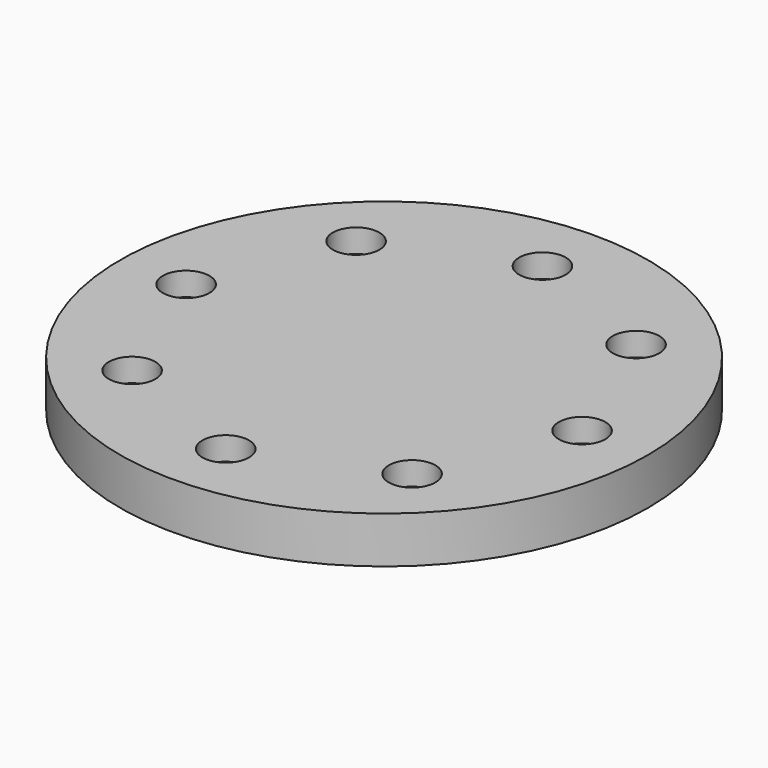
from build123d import *

# Parameters (mm, degrees)
CYLINDER796_R                = 1.5
CYLINDER796_DEPTH            = 20
CYLINDER796_PLACEMENT_ANGLE  = 45
CYLINDER797_R                = 1.5
CYLINDER797_DEPTH            = 20
CYLINDER798_R                = 1.5
CYLINDER798_DEPTH            = 20
CYLINDER798_PLACEMENT_ANGLE  = 135
CYLINDER799_R                = 1.5
CYLINDER799_DEPTH            = 20
CYLINDER800_R                = 1.5
CYLINDER800_DEPTH            = 20
CYLINDER800_PLACEMENT_ANGLE  = 225
CYLINDER801_R                = 1.5
CYLINDER801_DEPTH            = 20
CYLINDER802_R                = 1.5
CYLINDER802_DEPTH            = 20
CYLINDER802_PLACEMENT_ANGLE  = 45
CYLINDER794_R                = 1.5
CYLINDER794_DEPTH            = 20
CYLINDER803_R                = 3
CYLINDER803_DEPTH            = 3
CYLINDER803_PLACEMENT_ANGLE  = 45
CYLINDER1815_R               = 3
CYLINDER1815_DEPTH           = 3
CYLINDER1814_R               = 3
CYLINDER1814_DEPTH           = 3
CYLINDER1814_PLACEMENT_ANGLE = 135
CYLINDER1806_R               = 3
CYLINDER1806_DEPTH           = 3
CYLINDER1810_R               = 3
CYLINDER1810_DEPTH           = 3
CYLINDER1810_PLACEMENT_ANGLE = 225
CYLINDER1807_R               = 3
CYLINDER1807_DEPTH           = 3
CYLINDER1808_R               = 3
CYLINDER1808_DEPTH           = 3
CYLINDER1808_PLACEMENT_ANGLE = 45
CYLINDER795_R                = 3
CYLINDER795_DEPTH            = 3
CYLINDER257_R                = 34
CYLINDER257_DEPTH            = 6


with BuildPart() as obj1:
    # Cylinder796 → Cylinder796 (new body)
    with BuildSketch(Plane.XY):
        Circle(CYLINDER796_R)
    extrude(amount=CYLINDER796_DEPTH)


with BuildPart() as obj1_1:
    # Cylinder796 placement: moved
    add(obj1.part.moved(Location((-18.031223, 18.031223, -4))).rotate(Axis((-18.031223, 18.031223, -4), (0, 0, 1)), CYLINDER796_PLACEMENT_ANGLE))


with BuildPart() as obj2:
    # Cylinder797 → Cylinder797 (new body)
    with BuildSketch(Plane(origin=(-25.5, 0, -4), x_dir=(0, 1, 0), z_dir=(0, 0, 1))):
        Circle(CYLINDER797_R)
    extrude(amount=CYLINDER797_DEPTH)


with BuildPart() as obj3:
    # Cylinder798 → Cylinder798 (new body)
    with BuildSketch(Plane.XY):
        Circle(CYLINDER798_R)
    extrude(amount=CYLINDER798_DEPTH)


with BuildPart() as obj3_1:
    # Cylinder798 placement: moved
    add(obj3.part.moved(Location((-18.031223, -18.031223, -4))).rotate(Axis((-18.031223, -18.031223, -4), (0, 0, 1)), CYLINDER798_PLACEMENT_ANGLE))


with BuildPart() as obj4:
    # Cylinder799 → Cylinder799 (new body)
    with BuildSketch(Plane(origin=(0, -25.5, -4), x_dir=(-1, 0, 0), z_dir=(0, 0, 1))):
        Circle(CYLINDER799_R)
    extrude(amount=CYLINDER799_DEPTH)


with BuildPart() as obj5:
    # Cylinder800 → Cylinder800 (new body)
    with BuildSketch(Plane.XY):
        Circle(CYLINDER800_R)
    extrude(amount=CYLINDER800_DEPTH)


with BuildPart() as obj5_1:
    # Cylinder800 placement: moved
    add(obj5.part.moved(Location((18.031223, -18.031223, -4))).rotate(Axis((18.031223, -18.031223, -4), (0, 0, 1)), CYLINDER800_PLACEMENT_ANGLE))


with BuildPart() as obj6:
    # Cylinder801 → Cylinder801 (new body)
    with BuildSketch(Plane(origin=(25.5, 0, -4), x_dir=(0, -1, 0), z_dir=(0, 0, 1))):
        Circle(CYLINDER801_R)
    extrude(amount=CYLINDER801_DEPTH)


with BuildPart() as obj7:
    # Cylinder802 → Cylinder802 (new body)
    with BuildSketch(Plane.XY):
        Circle(CYLINDER802_R)
    extrude(amount=CYLINDER802_DEPTH)


with BuildPart() as obj7_1:
    # Cylinder802 placement: moved
    add(obj7.part.moved(Location((18.031223, 18.031223, -4))).rotate(Axis((18.031223, 18.031223, -4), (0, 0, -1)), CYLINDER802_PLACEMENT_ANGLE))


with BuildPart() as compound003:
    # Cylinder794 → Cylinder794 (new body)
    with BuildSketch(Plane(origin=(0, 25.5, -4), x_dir=(1, 0, 0), z_dir=(0, 0, 1))):
        Circle(CYLINDER794_R)
    extrude(amount=CYLINDER794_DEPTH)

    # Compound003: union obj1, obj2, obj3, obj4, obj5, obj6, obj7
    add(obj1_1.part)
    add(obj2.part)
    add(obj3_1.part)
    add(obj4.part)
    add(obj5_1.part)
    add(obj6.part)
    add(obj7_1.part)


with BuildPart() as obj8:
    # Cylinder803 → Cylinder803 (new body)
    with BuildSketch(Plane.XY):
        Circle(CYLINDER803_R)
    extrude(amount=CYLINDER803_DEPTH)


with BuildPart() as obj8_1:
    # Cylinder803 placement: moved
    add(obj8.part.moved(Location((-18.031223, 18.031223, 3))).rotate(Axis((-18.031223, 18.031223, 3), (0, 0, 1)), CYLINDER803_PLACEMENT_ANGLE))


with BuildPart() as obj9:
    # Cylinder1815 → Cylinder1815 (new body)
    with BuildSketch(Plane(origin=(-25.5, 0, 3), x_dir=(0, 1, 0), z_dir=(0, 0, 1))):
        Circle(CYLINDER1815_R)
    extrude(amount=CYLINDER1815_DEPTH)


with BuildPart() as obj10:
    # Cylinder1814 → Cylinder1814 (new body)
    with BuildSketch(Plane.XY):
        Circle(CYLINDER1814_R)
    extrude(amount=CYLINDER1814_DEPTH)


with BuildPart() as obj10_1:
    # Cylinder1814 placement: moved
    add(obj10.part.moved(Location((-18.031223, -18.031223, 3))).rotate(Axis((-18.031223, -18.031223, 3), (0, 0, 1)), CYLINDER1814_PLACEMENT_ANGLE))


with BuildPart() as obj11:
    # Cylinder1806 → Cylinder1806 (new body)
    with BuildSketch(Plane(origin=(0, -25.5, 3), x_dir=(-1, 0, 0), z_dir=(0, 0, 1))):
        Circle(CYLINDER1806_R)
    extrude(amount=CYLINDER1806_DEPTH)


with BuildPart() as obj12:
    # Cylinder1810 → Cylinder1810 (new body)
    with BuildSketch(Plane.XY):
        Circle(CYLINDER1810_R)
    extrude(amount=CYLINDER1810_DEPTH)


with BuildPart() as obj12_1:
    # Cylinder1810 placement: moved
    add(obj12.part.moved(Location((18.031223, -18.031223, 3))).rotate(Axis((18.031223, -18.031223, 3), (0, 0, 1)), CYLINDER1810_PLACEMENT_ANGLE))


with BuildPart() as obj13:
    # Cylinder1807 → Cylinder1807 (new body)
    with BuildSketch(Plane(origin=(25.5, 0, 3), x_dir=(0, -1, 0), z_dir=(0, 0, 1))):
        Circle(CYLINDER1807_R)
    extrude(amount=CYLINDER1807_DEPTH)


with BuildPart() as obj14:
    # Cylinder1808 → Cylinder1808 (new body)
    with BuildSketch(Plane.XY):
        Circle(CYLINDER1808_R)
    extrude(amount=CYLINDER1808_DEPTH)


with BuildPart() as obj14_1:
    # Cylinder1808 placement: moved
    add(obj14.part.moved(Location((18.031223, 18.031223, 3))).rotate(Axis((18.031223, 18.031223, 3), (0, 0, -1)), CYLINDER1808_PLACEMENT_ANGLE))


with BuildPart() as compound004:
    # Cylinder795 → Cylinder795 (new body)
    with BuildSketch(Plane(origin=(0, 25.5, 3), x_dir=(1, 0, 0), z_dir=(0, 0, 1))):
        Circle(CYLINDER795_R)
    extrude(amount=CYLINDER795_DEPTH)

    # Compound004: union obj8, obj9, obj10, obj11, obj12, obj13, obj14
    add(obj8_1.part)
    add(obj9.part)
    add(obj10_1.part)
    add(obj11.part)
    add(obj12_1.part)
    add(obj13.part)
    add(obj14_1.part)


with BuildPart() as cut003:
    # Cylinder257 → Cylinder257 (new body)
    with BuildSketch(Plane.XY):
        Circle(CYLINDER257_R)
    extrude(amount=CYLINDER257_DEPTH)

    # Cut002: cut Compound004
    add(compound004.part, mode=Mode.SUBTRACT)

    # Cut003: cut Compound003
    add(compound003.part, mode=Mode.SUBTRACT)


solid = cut003.part
